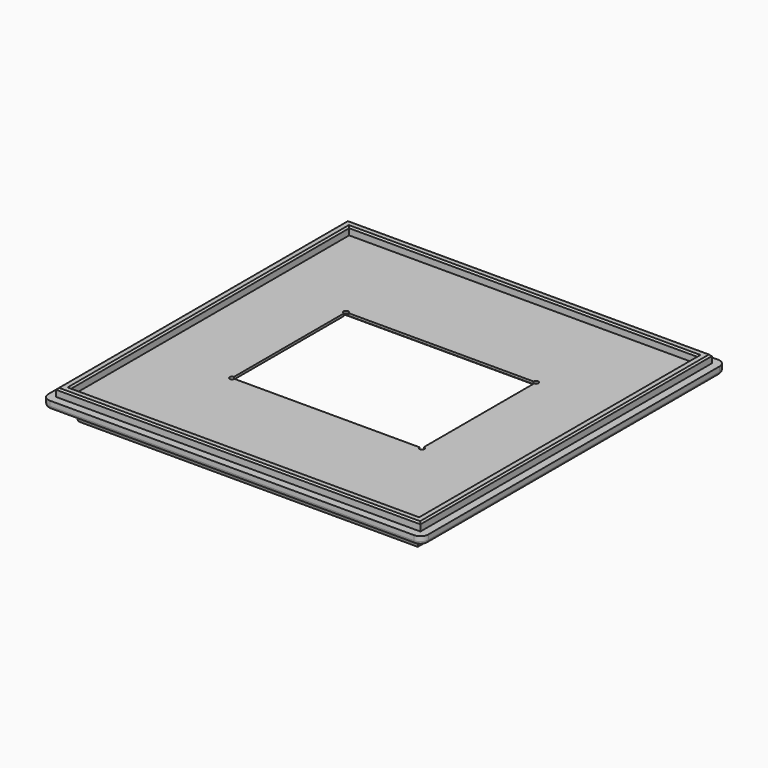
from build123d import *

# Parameters (mm, degrees)
F0_W     = 279.4
F0_H     = 279.4
F0_W_2   = 273.05
F0_H_2   = 273.05
F0_W_3   = 266.7
F0_H_3   = 266.7
F0_W_4   = 260.35
F0_H_4   = 260.35
F0_W_5   = 254
F0_H_5   = 254
F1_DEPTH = 6.35
F2_DEPTH = 12.7
F3_SIZE  = 1.27
F4_R     = 2.54
F5_DEPTH = 12.7
F6_R     = 2.54
F0_W_6   = 165.1
F0_H_6   = 127
F7_DEPTH = 6.35
F8_DEPTH = 4.445


with BuildPart() as f1:
    # F0 (on Top) → F1 (new body)
    with BuildSketch(Plane.XY):
        with BuildLine():
            Line((-139.7, -146.05), (139.7, -146.05))
            ThreePointArc((139.7, -146.05), (141.5598719395, -141.5598719395), (146.05, -139.7))
            Line((146.05, -139.7), (146.05, 139.7))
            ThreePointArc((146.05, 139.7), (141.5598719395, 141.5598719395), (139.7, 146.05))
            Line((139.7, 146.05), (-139.7, 146.05))
            ThreePointArc((-139.7, 146.05), (-141.5598719395, 141.5598719395), (-146.05, 139.7))
            Line((-146.05, 139.7), (-146.05, -139.7))
            ThreePointArc((-146.05, -139.7), (-141.5598719395, -141.5598719395), (-139.7, -146.05))
        make_face()
        Rectangle(F0_W, F0_H, mode=Mode.SUBTRACT)
        Rectangle(F0_W, F0_H)
        Rectangle(F0_W_2, F0_H_2, mode=Mode.SUBTRACT)
        Rectangle(F0_W_2, F0_H_2)
        Rectangle(F0_W_3, F0_H_3, mode=Mode.SUBTRACT)
        Rectangle(F0_W_3, F0_H_3)
        Rectangle(F0_W_4, F0_H_4, mode=Mode.SUBTRACT)
        Rectangle(F0_W_4, F0_H_4)
        Rectangle(F0_W_5, F0_H_5, mode=Mode.SUBTRACT)
        with BuildLine():
            Line((-146.049999995, -152.4), (146.05, -152.4))
            ThreePointArc((146.05, -152.4), (141.5598719395, -150.5401280605), (139.7, -146.05))
            Line((139.7, -146.05), (-139.7, -146.05))
            ThreePointArc((-139.7, -146.05), (-141.5598719377, -150.5401280588), (-146.049999995, -152.4))
        make_face()
        with BuildLine():
            ThreePointArc((139.7, 146.05), (141.5598719395, 150.5401280605), (146.05, 152.4))
            Line((146.05, 152.4), (-146.0500000019, 152.4))
            ThreePointArc((-146.0500000019, 152.4), (-141.5598719401, 150.5401280612), (-139.7, 146.05))
            Line((-139.7, 146.05), (139.7, 146.05))
        make_face()
        with BuildLine():
            ThreePointArc((146.05, -139.7), (150.5401280605, -141.5598719395), (152.4, -146.05))
            Line((152.4, -146.05), (152.4, 146.05))
            ThreePointArc((152.4, 146.05), (150.5401280605, 141.5598719395), (146.05, 139.7))
            Line((146.05, 139.7), (146.05, -139.7))
        make_face()
        with BuildLine():
            Line((-152.4, 146.0500002439), (-152.4, -146.05))
            ThreePointArc((-152.4, -146.05), (-150.5401280605, -141.5598719395), (-146.05, -139.7))
            Line((-146.05, -139.7), (-146.05, 139.7))
            ThreePointArc((-146.05, 139.7), (-150.5401281468, 141.5598720257), (-152.4, 146.0500002439))
        make_face()
        with BuildLine():
            ThreePointArc((139.7, -146.05), (141.5598719395, -150.5401280605), (146.05, -152.4))
            ThreePointArc((146.05, -152.4), (150.5401280605, -150.5401280605), (152.4, -146.05))
            ThreePointArc((152.4, -146.05), (150.5401280605, -141.5598719395), (146.05, -139.7))
            Line((146.05, -139.7), (146.05, -146.05))
            Line((146.05, -146.05), (139.7, -146.05))
        make_face()
        with BuildLine():
            ThreePointArc((-152.4, -146.05), (-150.5401280588, -150.5401280623), (-146.049999995, -152.4))
            ThreePointArc((-146.049999995, -152.4), (-141.5598719377, -150.5401280588), (-139.7, -146.05))
            Line((-139.7, -146.05), (-146.05, -146.05))
            Line((-146.05, -146.05), (-146.05, -139.7))
            ThreePointArc((-146.05, -139.7), (-150.5401280605, -141.5598719395), (-152.4, -146.05))
        make_face()
        with BuildLine():
            ThreePointArc((146.05, 139.7), (150.5401280605, 141.5598719395), (152.4, 146.05))
            ThreePointArc((152.4, 146.05), (150.5401280605, 150.5401280605), (146.05, 152.4))
            ThreePointArc((146.05, 152.4), (141.5598719395, 150.5401280605), (139.7, 146.05))
            Line((139.7, 146.05), (146.05, 146.05))
            Line((146.05, 146.05), (146.05, 139.7))
        make_face()
        with BuildLine():
            ThreePointArc((-146.0500000019, 152.4), (-150.540127975, 150.5401281461), (-152.4, 146.0500002439))
            ThreePointArc((-152.4, 146.0500002439), (-150.5401281468, 141.5598720257), (-146.05, 139.7))
            Line((-146.05, 139.7), (-146.05, 146.05))
            Line((-146.05, 146.05), (-139.7, 146.05))
            ThreePointArc((-139.7, 146.05), (-141.5598719401, 150.5401280612), (-146.0500000019, 152.4))
        make_face()
        with BuildLine():
            Line((-146.05, -146.05), (-139.7, -146.05))
            ThreePointArc((-139.7, -146.05), (-141.5598719395, -141.5598719395), (-146.05, -139.7))
            Line((-146.05, -139.7), (-146.05, -146.05))
        make_face()
        with BuildLine():
            ThreePointArc((139.7, 146.05), (141.5598719395, 141.5598719395), (146.05, 139.7))
            Line((146.05, 139.7), (146.05, 146.05))
            Line((146.05, 146.05), (139.7, 146.05))
        make_face()
        with BuildLine():
            Line((-146.05, 146.05), (-146.05, 139.7))
            ThreePointArc((-146.05, 139.7), (-141.5598719395, 141.5598719395), (-139.7, 146.05))
            Line((-139.7, 146.05), (-146.05, 146.05))
        make_face()
        with BuildLine():
            ThreePointArc((146.05, -139.7), (141.5598719395, -141.5598719395), (139.7, -146.05))
            Line((139.7, -146.05), (146.05, -146.05))
            Line((146.05, -146.05), (146.05, -139.7))
        make_face()
    extrude(amount=F1_DEPTH)

    # F0 (on Top) → F2 (join)
    with BuildSketch(Plane.XY):
        with BuildLine():
            Line((-139.7, -146.05), (139.7, -146.05))
            ThreePointArc((139.7, -146.05), (141.5598719395, -141.5598719395), (146.05, -139.7))
            Line((146.05, -139.7), (146.05, 139.7))
            ThreePointArc((146.05, 139.7), (141.5598719395, 141.5598719395), (139.7, 146.05))
            Line((139.7, 146.05), (-139.7, 146.05))
            ThreePointArc((-139.7, 146.05), (-141.5598719395, 141.5598719395), (-146.05, 139.7))
            Line((-146.05, 139.7), (-146.05, -139.7))
            ThreePointArc((-146.05, -139.7), (-141.5598719395, -141.5598719395), (-139.7, -146.05))
        make_face()
        Rectangle(F0_W, F0_H, mode=Mode.SUBTRACT)
        with BuildLine():
            Line((-146.05, 146.05), (-146.05, 139.7))
            ThreePointArc((-146.05, 139.7), (-141.5598719395, 141.5598719395), (-139.7, 146.05))
            Line((-139.7, 146.05), (-146.05, 146.05))
        make_face()
        with BuildLine():
            Line((-146.05, -146.05), (-139.7, -146.05))
            ThreePointArc((-139.7, -146.05), (-141.5598719395, -141.5598719395), (-146.05, -139.7))
            Line((-146.05, -139.7), (-146.05, -146.05))
        make_face()
        with BuildLine():
            ThreePointArc((146.05, -139.7), (141.5598719395, -141.5598719395), (139.7, -146.05))
            Line((139.7, -146.05), (146.05, -146.05))
            Line((146.05, -146.05), (146.05, -139.7))
        make_face()
        with BuildLine():
            ThreePointArc((139.7, 146.05), (141.5598719395, 141.5598719395), (146.05, 139.7))
            Line((146.05, 139.7), (146.05, 146.05))
            Line((146.05, 146.05), (139.7, 146.05))
        make_face()
    extrude(amount=F2_DEPTH)

    # F3
    f3_edges = [f1.edges().sort_by_distance(p)[0] for p in [
        (146.05, 0, 12.7),
        (139.7, 0, 12.7),
        (0, 139.7, 12.7),
        (0, 146.05, 12.7),
        (-139.7, 0, 12.7),
        (-146.05, 0, 12.7),
        (0, -139.7, 12.7),
        (0, -146.05, 12.7),
    ]]
    chamfer(f3_edges, length=F3_SIZE)

    # F4
    f4_edges = [f1.edges().sort_by_distance(p)[0] for p in [
        (0, -152.4, 0),
        (-152.4, 0, 0),
        (-150.540128, -150.540128, 0),
        (152.4, 0, 0),
        (150.540128, -150.540128, 0),
        (0, 152.4, 0),
        (-150.540128, 150.540128, 0),
        (150.540128, 150.540128, 0),
    ]]
    fillet(f4_edges, radius=F4_R)

    # F0 (on Top) → F5 (join)
    with BuildSketch(Plane.XY):
        Rectangle(F0_W_2, F0_H_2)
        Rectangle(F0_W_3, F0_H_3, mode=Mode.SUBTRACT)
        Rectangle(F0_W_4, F0_H_4)
        Rectangle(F0_W_5, F0_H_5, mode=Mode.SUBTRACT)
    extrude(amount=-F5_DEPTH)

    # F6
    f6_edges = [f1.edges().sort_by_distance(p)[0] for p in [
        (0, 136.525, -12.7),
        (-136.525, 0, -12.7),
        (0, -136.525, -12.7),
        (136.525, 0, -12.7),
        (0, 127, -12.7),
        (-127, 0, -12.7),
        (0, -127, -12.7),
        (127, 0, -12.7),
    ]]
    fillet(f6_edges, radius=F6_R)

    # F0 (on Top) → F7 (join)
    with BuildSketch(Plane.XY):
        Rectangle(F0_W_5, F0_H_5)
        Rectangle(F0_W_6, F0_H_6, mode=Mode.SUBTRACT)
        Rectangle(F0_W_6, F0_H_6)
        with BuildLine():
            ThreePointArc((-76.2, 55.245), (-77.5470384182, 58.4970384182), (-74.295, 57.15))
            Line((-74.295, 57.15), (74.295, 57.15))
            ThreePointArc((74.295, 57.15), (76.2, 59.055), (78.105, 57.15))
            ThreePointArc((78.105, 57.15), (77.5470384182, 55.8029615818), (76.2, 55.245))
            Line((76.2, 55.245), (76.2, -55.245))
            ThreePointArc((76.2, -55.245), (77.5470384182, -55.8029615818), (78.105, -57.15))
            ThreePointArc((78.105, -57.15), (76.2, -59.055), (74.295, -57.15))
            Line((74.295, -57.15), (-74.295, -57.15))
            ThreePointArc((-74.295, -57.15), (-77.5470384182, -58.4970384182), (-76.2, -55.245))
            Line((-76.2, -55.245), (-76.2, 55.245))
        make_face(mode=Mode.SUBTRACT)
    extrude(amount=F7_DEPTH)

    # F0 (on Top) → F8 (cut)
    with BuildSketch(Plane.XY):
        Rectangle(F0_W_6, F0_H_6)
        with BuildLine():
            ThreePointArc((-76.2, 55.245), (-77.5470384182, 58.4970384182), (-74.295, 57.15))
            Line((-74.295, 57.15), (74.295, 57.15))
            ThreePointArc((74.295, 57.15), (76.2, 59.055), (78.105, 57.15))
            ThreePointArc((78.105, 57.15), (77.5470384182, 55.8029615818), (76.2, 55.245))
            Line((76.2, 55.245), (76.2, -55.245))
            ThreePointArc((76.2, -55.245), (77.5470384182, -55.8029615818), (78.105, -57.15))
            ThreePointArc((78.105, -57.15), (76.2, -59.055), (74.295, -57.15))
            Line((74.295, -57.15), (-74.295, -57.15))
            ThreePointArc((-74.295, -57.15), (-77.5470384182, -58.4970384182), (-76.2, -55.245))
            Line((-76.2, -55.245), (-76.2, 55.245))
        make_face(mode=Mode.SUBTRACT)
    extrude(amount=F8_DEPTH, mode=Mode.SUBTRACT)


solid = f1.part
